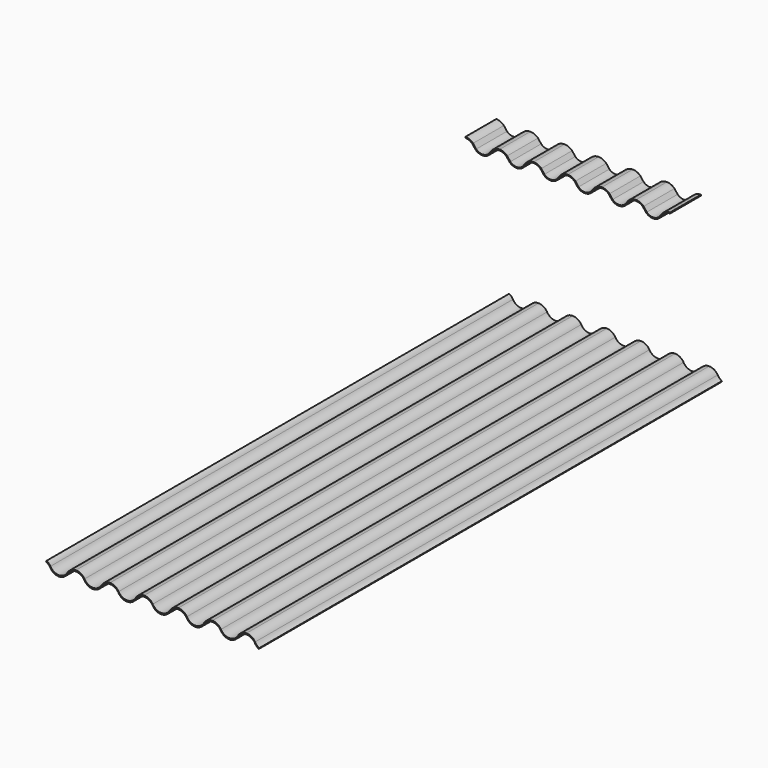
from build123d import *

# Parameters (mm, degrees)
F1_DEPTH = 25
F2_DEPTH = 3000
F4_DEPTH = 200


with BuildPart() as f1:
    # F0 (on Front) → F1 (new body)
    with BuildSketch(Plane.XZ):
        with BuildLine():
            ThreePointArc((-52.455625, -178.581003), (-39.636878, -187.346668), (-30.050142, -199.563528))
            ThreePointArc((-30.050142, -199.563528), (14.199629, -224.861274), (58.249991, -199.217877))
            ThreePointArc((58.249991, -199.217877), (76.928198, -180.448321), (102.499991, -173.574089))
            ThreePointArc((102.499991, -173.574089), (128.071783, -180.448321), (146.749991, -199.217877))
            ThreePointArc((146.749991, -199.217877), (190.999991, -224.861665), (235.249991, -199.217877))
            ThreePointArc((235.249991, -199.217877), (253.928198, -180.448321), (279.499991, -173.574089))
            ThreePointArc((279.499991, -173.574089), (305.071783, -180.448321), (323.749991, -199.217877))
            ThreePointArc((323.749991, -199.217877), (367.999991, -224.861665), (412.249991, -199.217877))
            ThreePointArc((412.249991, -199.217877), (430.928198, -180.448321), (456.499991, -173.574089))
            ThreePointArc((456.499991, -173.574089), (482.071783, -180.448321), (500.749991, -199.217877))
            ThreePointArc((500.749991, -199.217877), (544.999991, -224.861665), (589.249991, -199.217877))
            ThreePointArc((589.249991, -199.217877), (607.928198, -180.448321), (633.499991, -173.574089))
            ThreePointArc((633.499991, -173.574089), (659.071783, -180.448321), (677.749991, -199.217877))
            ThreePointArc((677.749991, -199.217877), (721.999991, -224.861665), (766.249991, -199.217877))
            ThreePointArc((766.249991, -199.217877), (784.928198, -180.448321), (810.499991, -173.574089))
            ThreePointArc((810.499991, -173.574089), (836.071783, -180.448321), (854.749991, -199.217877))
            ThreePointArc((854.749991, -199.217877), (898.999991, -224.861665), (943.249991, -199.217877))
            ThreePointArc((943.249991, -199.217877), (961.928198, -180.448321), (987.499991, -173.574089))
            ThreePointArc((987.499991, -173.574089), (1013.071783, -180.448321), (1031.749991, -199.217877))
            ThreePointArc((1031.749991, -199.217877), (1040.214237, -210.198696), (1051.323161, -218.494098))
            Line((1051.323161, -218.494098), (1053.758551, -213.468733))
            ThreePointArc((1053.758551, -213.468733), (1041.204378, -204.860351), (1031.749991, -192.930301))
            ThreePointArc((1031.749991, -192.930301), (1013.071783, -174.160745), (987.499991, -167.286514))
            ThreePointArc((987.499991, -167.286514), (961.928198, -174.160745), (943.249991, -192.930301))
            ThreePointArc((943.249991, -192.930301), (898.999991, -218.574089), (854.749991, -192.930301))
            ThreePointArc((854.749991, -192.930301), (836.071783, -174.160745), (810.499991, -167.286514))
            ThreePointArc((810.499991, -167.286514), (784.928198, -174.160745), (766.249991, -192.930301))
            ThreePointArc((766.249991, -192.930301), (721.999991, -218.574089), (677.749991, -192.930301))
            ThreePointArc((677.749991, -192.930301), (659.071783, -174.160745), (633.499991, -167.286514))
            ThreePointArc((633.499991, -167.286514), (607.928198, -174.160745), (589.249991, -192.930301))
            ThreePointArc((589.249991, -192.930301), (544.999991, -218.574089), (500.749991, -192.930301))
            ThreePointArc((500.749991, -192.930301), (482.071783, -174.160745), (456.499991, -167.286514))
            ThreePointArc((456.499991, -167.286514), (430.928198, -174.160745), (412.249991, -192.930301))
            ThreePointArc((412.249991, -192.930301), (367.999991, -218.574089), (323.749991, -192.930301))
            ThreePointArc((323.749991, -192.930301), (305.071783, -174.160745), (279.499991, -167.286514))
            ThreePointArc((279.499991, -167.286514), (253.928198, -174.160745), (235.249991, -192.930301))
            ThreePointArc((235.249991, -192.930301), (190.999991, -218.574089), (146.749991, -192.930301))
            ThreePointArc((146.749991, -192.930301), (128.071783, -174.160745), (102.499991, -167.286514))
            ThreePointArc((102.499991, -167.286514), (76.928198, -174.160745), (58.249991, -192.930301))
            ThreePointArc((58.249991, -192.930301), (13.999991, -218.574089), (-30.250009, -192.930301))
            ThreePointArc((-30.250009, -192.930301), (-38.773372, -181.891358), (-49.968416, -173.574089))
            Line((-49.968416, -173.574089), (-52.455625, -178.581003))
        make_face()
    extrude(amount=F1_DEPTH)

    # F0 (on Front) → F2 (join)
    with BuildSketch(Plane.XZ):
        with BuildLine():
            ThreePointArc((-52.455625, -178.581003), (-39.636878, -187.346668), (-30.050142, -199.563528))
            ThreePointArc((-30.050142, -199.563528), (14.199629, -224.861274), (58.249991, -199.217877))
            ThreePointArc((58.249991, -199.217877), (76.928198, -180.448321), (102.499991, -173.574089))
            ThreePointArc((102.499991, -173.574089), (128.071783, -180.448321), (146.749991, -199.217877))
            ThreePointArc((146.749991, -199.217877), (190.999991, -224.861665), (235.249991, -199.217877))
            ThreePointArc((235.249991, -199.217877), (253.928198, -180.448321), (279.499991, -173.574089))
            ThreePointArc((279.499991, -173.574089), (305.071783, -180.448321), (323.749991, -199.217877))
            ThreePointArc((323.749991, -199.217877), (367.999991, -224.861665), (412.249991, -199.217877))
            ThreePointArc((412.249991, -199.217877), (430.928198, -180.448321), (456.499991, -173.574089))
            ThreePointArc((456.499991, -173.574089), (482.071783, -180.448321), (500.749991, -199.217877))
            ThreePointArc((500.749991, -199.217877), (544.999991, -224.861665), (589.249991, -199.217877))
            ThreePointArc((589.249991, -199.217877), (607.928198, -180.448321), (633.499991, -173.574089))
            ThreePointArc((633.499991, -173.574089), (659.071783, -180.448321), (677.749991, -199.217877))
            ThreePointArc((677.749991, -199.217877), (721.999991, -224.861665), (766.249991, -199.217877))
            ThreePointArc((766.249991, -199.217877), (784.928198, -180.448321), (810.499991, -173.574089))
            ThreePointArc((810.499991, -173.574089), (836.071783, -180.448321), (854.749991, -199.217877))
            ThreePointArc((854.749991, -199.217877), (898.999991, -224.861665), (943.249991, -199.217877))
            ThreePointArc((943.249991, -199.217877), (961.928198, -180.448321), (987.499991, -173.574089))
            ThreePointArc((987.499991, -173.574089), (1013.071783, -180.448321), (1031.749991, -199.217877))
            ThreePointArc((1031.749991, -199.217877), (1040.214237, -210.198696), (1051.323161, -218.494098))
            Line((1051.323161, -218.494098), (1053.758551, -213.468733))
            ThreePointArc((1053.758551, -213.468733), (1041.204378, -204.860351), (1031.749991, -192.930301))
            ThreePointArc((1031.749991, -192.930301), (1013.071783, -174.160745), (987.499991, -167.286514))
            ThreePointArc((987.499991, -167.286514), (961.928198, -174.160745), (943.249991, -192.930301))
            ThreePointArc((943.249991, -192.930301), (898.999991, -218.574089), (854.749991, -192.930301))
            ThreePointArc((854.749991, -192.930301), (836.071783, -174.160745), (810.499991, -167.286514))
            ThreePointArc((810.499991, -167.286514), (784.928198, -174.160745), (766.249991, -192.930301))
            ThreePointArc((766.249991, -192.930301), (721.999991, -218.574089), (677.749991, -192.930301))
            ThreePointArc((677.749991, -192.930301), (659.071783, -174.160745), (633.499991, -167.286514))
            ThreePointArc((633.499991, -167.286514), (607.928198, -174.160745), (589.249991, -192.930301))
            ThreePointArc((589.249991, -192.930301), (544.999991, -218.574089), (500.749991, -192.930301))
            ThreePointArc((500.749991, -192.930301), (482.071783, -174.160745), (456.499991, -167.286514))
            ThreePointArc((456.499991, -167.286514), (430.928198, -174.160745), (412.249991, -192.930301))
            ThreePointArc((412.249991, -192.930301), (367.999991, -218.574089), (323.749991, -192.930301))
            ThreePointArc((323.749991, -192.930301), (305.071783, -174.160745), (279.499991, -167.286514))
            ThreePointArc((279.499991, -167.286514), (253.928198, -174.160745), (235.249991, -192.930301))
            ThreePointArc((235.249991, -192.930301), (190.999991, -218.574089), (146.749991, -192.930301))
            ThreePointArc((146.749991, -192.930301), (128.071783, -174.160745), (102.499991, -167.286514))
            ThreePointArc((102.499991, -167.286514), (76.928198, -174.160745), (58.249991, -192.930301))
            ThreePointArc((58.249991, -192.930301), (13.999991, -218.574089), (-30.250009, -192.930301))
            ThreePointArc((-30.250009, -192.930301), (-38.773372, -181.891358), (-49.968416, -173.574089))
            Line((-49.968416, -173.574089), (-52.455625, -178.581003))
        make_face()
    extrude(amount=F2_DEPTH)


with BuildPart() as f4:
    # F3 (on Front) → F4 (new body)
    with BuildSketch(Plane.XZ):
        with BuildLine():
            ThreePointArc((-277.127914, 464.137359), (-257.611059, 460.255215), (-241.065468, 449.199805))
            Line((-241.065468, 449.199805), (-224.833861, 427.931412))
            ThreePointArc((-224.833861, 427.931412), (-188.627914, 412.849784), (-152.421967, 427.931412))
            Line((-152.421967, 427.931412), (-136.190359, 449.199805))
            ThreePointArc((-136.190359, 449.199805), (-119.644769, 460.255215), (-100.127914, 464.137359))
            ThreePointArc((-100.127914, 464.137359), (-80.611059, 460.255215), (-64.065468, 449.199805))
            Line((-64.065468, 449.199805), (-47.833861, 427.931412))
            ThreePointArc((-47.833861, 427.931412), (-11.627914, 412.849784), (24.578033, 427.931412))
            Line((24.578033, 427.931412), (40.809641, 449.199805))
            ThreePointArc((40.809641, 449.199805), (57.355231, 460.255215), (76.872086, 464.137359))
            ThreePointArc((76.872086, 464.137359), (96.388941, 460.255215), (112.934532, 449.199805))
            Line((112.934532, 449.199805), (129.166139, 427.931412))
            ThreePointArc((129.166139, 427.931412), (165.372086, 412.849784), (201.578033, 427.931412))
            Line((201.578033, 427.931412), (217.809641, 449.199805))
            ThreePointArc((217.809641, 449.199805), (234.355231, 460.255215), (253.872086, 464.137359))
            ThreePointArc((253.872086, 464.137359), (273.388941, 460.255215), (289.934532, 449.199805))
            Line((289.934532, 449.199805), (306.166139, 427.931412))
            ThreePointArc((306.166139, 427.931412), (342.372086, 412.849784), (378.578033, 427.931412))
            Line((378.578033, 427.931412), (394.809641, 449.199805))
            ThreePointArc((394.809641, 449.199805), (411.355231, 460.255215), (430.872086, 464.137359))
            ThreePointArc((430.872086, 464.137359), (450.388941, 460.255215), (466.934532, 449.199805))
            Line((466.934532, 449.199805), (483.166139, 427.931412))
            ThreePointArc((483.166139, 427.931412), (519.372086, 412.849784), (555.578033, 427.931412))
            Line((555.578033, 427.931412), (571.809641, 449.199805))
            ThreePointArc((571.809641, 449.199805), (588.355231, 460.255215), (607.872086, 464.137359))
            ThreePointArc((607.872086, 464.137359), (627.388941, 460.255215), (643.934532, 449.199805))
            Line((643.934532, 449.199805), (660.166139, 427.931412))
            ThreePointArc((660.166139, 427.931412), (696.372086, 412.849784), (732.578033, 427.931412))
            Line((732.578033, 427.931412), (748.809641, 449.199805))
            ThreePointArc((748.809641, 449.199805), (765.355231, 460.255215), (784.872086, 464.137359))
            Line((784.872086, 464.137359), (784.872086, 469.137372))
            ThreePointArc((784.872086, 469.137372), (763.283896, 464.808932), (745.032961, 452.492734))
            Line((745.032961, 452.492734), (728.805137, 431.229299))
            ThreePointArc((728.805137, 431.229299), (696.372086, 417.849796), (663.939035, 431.229299))
            Line((663.939035, 431.229299), (647.711212, 452.492734))
            ThreePointArc((647.711212, 452.492734), (629.460277, 464.808932), (607.872086, 469.137372))
            ThreePointArc((607.872086, 469.137372), (586.283896, 464.808932), (568.032961, 452.492734))
            Line((568.032961, 452.492734), (551.805137, 431.229299))
            ThreePointArc((551.805137, 431.229299), (519.372086, 417.849796), (486.939035, 431.229299))
            Line((486.939035, 431.229299), (470.711212, 452.492734))
            ThreePointArc((470.711212, 452.492734), (452.460277, 464.808932), (430.872086, 469.137372))
            ThreePointArc((430.872086, 469.137372), (409.283896, 464.808932), (391.032961, 452.492734))
            Line((391.032961, 452.492734), (374.805137, 431.229299))
            ThreePointArc((374.805137, 431.229299), (342.372086, 417.849796), (309.939035, 431.229299))
            Line((309.939035, 431.229299), (293.711212, 452.492734))
            ThreePointArc((293.711212, 452.492734), (275.460277, 464.808932), (253.872086, 469.137372))
            ThreePointArc((253.872086, 469.137372), (232.283896, 464.808932), (214.032961, 452.492734))
            Line((214.032961, 452.492734), (197.805137, 431.229299))
            ThreePointArc((197.805137, 431.229299), (165.372086, 417.849796), (132.939035, 431.229299))
            Line((132.939035, 431.229299), (116.711212, 452.492734))
            ThreePointArc((116.711212, 452.492734), (98.460277, 464.808932), (76.872086, 469.137372))
            ThreePointArc((76.872086, 469.137372), (55.283896, 464.808932), (37.032961, 452.492734))
            Line((37.032961, 452.492734), (20.805137, 431.229299))
            ThreePointArc((20.805137, 431.229299), (-11.627914, 417.849796), (-44.060965, 431.229299))
            Line((-44.060965, 431.229299), (-60.288788, 452.492734))
            ThreePointArc((-60.288788, 452.492734), (-78.539723, 464.808932), (-100.127914, 469.137372))
            ThreePointArc((-100.127914, 469.137372), (-121.716104, 464.808932), (-139.967039, 452.492734))
            Line((-139.967039, 452.492734), (-156.194863, 431.229299))
            ThreePointArc((-156.194863, 431.229299), (-188.627914, 417.849796), (-221.060965, 431.229299))
            Line((-221.060965, 431.229299), (-237.288788, 452.492734))
            ThreePointArc((-237.288788, 452.492734), (-255.539723, 464.808932), (-277.127914, 469.137372))
            Line((-277.127914, 469.137372), (-277.127914, 464.137359))
        make_face()
    extrude(amount=-F4_DEPTH)


solid = Compound([f1.part, f4.part])
